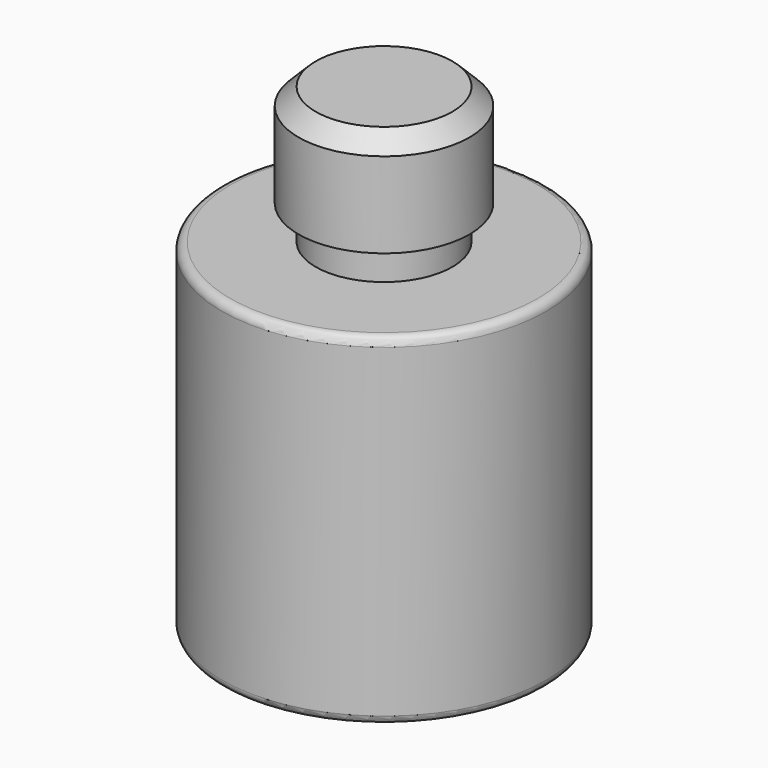
from build123d import *

# Parameters (mm, degrees)
F0_R     = 9.5
F1_DEPTH = 20
F2_R     = 5
F3_DEPTH = 8
F4_R     = 0.5
F5_SIZE  = 1
F6_W     = 1
F6_H     = 2


with BuildPart() as f1:
    # F0 (on Top) → F1 (new body)
    with BuildSketch(Plane.XY):
        Circle(F0_R)
    extrude(amount=-F1_DEPTH)

    # F2 (on face) → F3 (join)
    with BuildSketch(Plane.XY):
        Circle(F2_R)
    extrude(amount=F3_DEPTH)

    # F4
    f4_edges = [f1.edges().sort_by_distance(p)[0] for p in [
        (-9.5, 0, -20),
        (-9.5, 0, 0),
    ]]
    fillet(f4_edges, radius=F4_R)

    # F5
    f5_edges = [f1.edges().sort_by_distance(p)[0] for p in [
        (-5, 0, 8),
    ]]
    chamfer(f5_edges, length=F5_SIZE)

    # F6 (on Right) → F7 (revolve, cut)
    with BuildSketch(Plane.YZ):
        with Locations((-4.5, 1)):
            Rectangle(F6_W, F6_H)
    revolve(axis=Axis((0, 0, 7.854766), (0, 0, 1)), mode=Mode.SUBTRACT)


solid = f1.part
